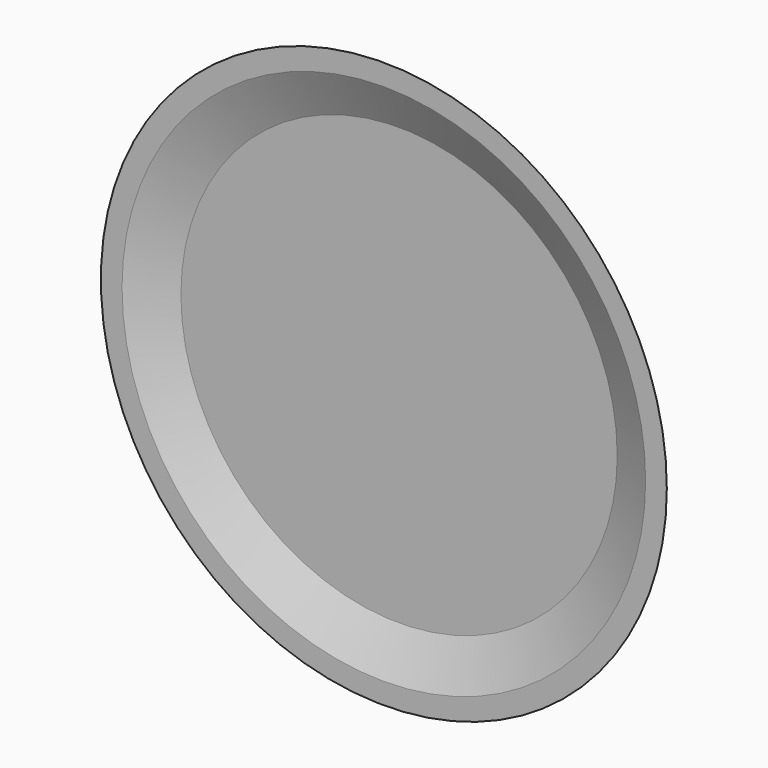
from build123d import *

# Parameters (mm, degrees)
F2_T     = -2.54
F3_R     = 58.705538
F4_DEPTH = 1.778


with BuildPart() as f1:
    # F0 (on Top) → F1 (revolve)
    with BuildSketch(Plane.XY):
        Polygon((66.235654, 49.231492), (0, 49.231492), (0, 40.974639), (85.226417, 40.974639), align=None)
    revolve(axis=Axis((0, 45.103066, 0), (0, 1, 0)))

    # F2
    f2_openings = [f1.faces().sort_by_distance(p)[0] for p in [
        (0, 40.974639, 0),
    ]]
    offset(amount=F2_T, openings=f2_openings)

    # F3 (on face) → F4 (join)
    with BuildSketch(Plane(origin=(0, 49.231492, 0), x_dir=(-1, 0, 0), z_dir=(0, 1, 0))):
        Circle(F3_R)
    extrude(amount=F4_DEPTH)


solid = f1.part
